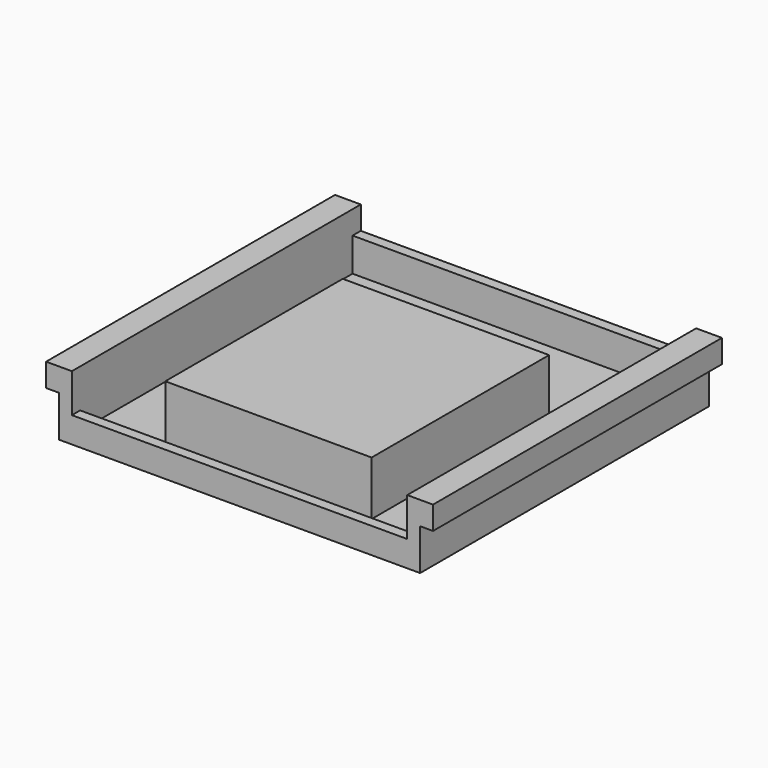
from build123d import *

# Parameters (mm, degrees)
BOX046_W          = 13
BOX046_H          = 0.4
BOX046_DEPTH      = 0.7
BOX045_W          = 13
BOX045_H          = 0.4
BOX045_DEPTH      = 1.3
BOX044_W          = 1
BOX044_H          = 14
BOX044_DEPTH      = 0.9
BOX043_W          = 1
BOX043_H          = 14
BOX043_DEPTH      = 0.9
BOX042_W          = 0.5
BOX042_H          = 14
BOX042_DEPTH      = 1.3
BOX041_W          = 0.5
BOX041_H          = 14
BOX041_DEPTH      = 1.3
BOX040_W          = 14
BOX040_H          = 14
BOX040_DEPTH      = 0.3
CYLINDER011_R     = 0.6
CYLINDER011_DEPTH = 0.6
CYLINDER012_R     = 0.6
CYLINDER012_DEPTH = 0.6
BOX055_W          = 8
BOX055_H          = 8.6
BOX055_DEPTH      = 2.1
BOX047_W          = 5
BOX047_H          = 4
BOX047_DEPTH      = 0.7


with BuildPart() as obj1:
    # Box046 → Box046 (new body)
    with BuildSketch(Plane(origin=(-6.5, -7, 0.3), x_dir=(1, 0, 0), z_dir=(0, 0, 1))):
        with Locations((6.5, 0.2)):
            Rectangle(BOX046_W, BOX046_H)
    extrude(amount=BOX046_DEPTH)


with BuildPart() as obj2:
    # Box045 → Box045 (new body)
    with BuildSketch(Plane(origin=(-6.5, 6.6, 0.3), x_dir=(1, 0, 0), z_dir=(0, 0, 1))):
        with Locations((6.5, 0.2)):
            Rectangle(BOX045_W, BOX045_H)
    extrude(amount=BOX045_DEPTH)


with BuildPart() as obj3:
    # Box044 → Box044 (new body)
    with BuildSketch(Plane(origin=(6.5, -7, 1.6), x_dir=(1, 0, 0), z_dir=(0, 0, 1))):
        with Locations((0.5, 7)):
            Rectangle(BOX044_W, BOX044_H)
    extrude(amount=BOX044_DEPTH)


with BuildPart() as obj4:
    # Box043 → Box043 (new body)
    with BuildSketch(Plane(origin=(-7.5, -7, 1.6), x_dir=(1, 0, 0), z_dir=(0, 0, 1))):
        with Locations((0.5, 7)):
            Rectangle(BOX043_W, BOX043_H)
    extrude(amount=BOX043_DEPTH)


with BuildPart() as obj5:
    # Box042 → Box042 (new body)
    with BuildSketch(Plane(origin=(6.5, -7, 0.3), x_dir=(1, 0, 0), z_dir=(0, 0, 1))):
        with Locations((0.25, 7)):
            Rectangle(BOX042_W, BOX042_H)
    extrude(amount=BOX042_DEPTH)


with BuildPart() as obj6:
    # Box041 → Box041 (new body)
    with BuildSketch(Plane(origin=(-7, -7, 0.3), x_dir=(1, 0, 0), z_dir=(0, 0, 1))):
        with Locations((0.25, 7)):
            Rectangle(BOX041_W, BOX041_H)
    extrude(amount=BOX041_DEPTH)


with BuildPart() as obj7:
    # Box040 → Box040 (new body)
    with BuildSketch(Plane(origin=(-7, -7, 0), x_dir=(1, 0, 0), z_dir=(0, 0, 1))):
        with Locations((7, 7)):
            Rectangle(BOX040_W, BOX040_H)
    extrude(amount=BOX040_DEPTH)


with BuildPart() as obj8:
    # Cylinder011 → Cylinder011 (new body)
    with BuildSketch(Plane(origin=(-5.5, -5.5, -0.6), x_dir=(1, 0, 0), z_dir=(0, 0, 1))):
        Circle(CYLINDER011_R)
    extrude(amount=CYLINDER011_DEPTH)


with BuildPart() as obj9:
    # Cylinder012 → Cylinder012 (new body)
    with BuildSketch(Plane(origin=(5.5, 5.5, -0.6), x_dir=(1, 0, 0), z_dir=(0, 0, 1))):
        Circle(CYLINDER012_R)
    extrude(amount=CYLINDER012_DEPTH)


with BuildPart() as obj10:
    # Box055 → Box055 (new body)
    with BuildSketch(Plane(origin=(-4, -5.6, 0.3), x_dir=(1, 0, 0), z_dir=(0, 0, 1))):
        with Locations((4, 4.3)):
            Rectangle(BOX055_W, BOX055_H)
    extrude(amount=BOX055_DEPTH)


with BuildPart() as obj11:
    # Box047 → Box047 (new body)
    with BuildSketch(Plane(origin=(-2.5, -1, -0.7), x_dir=(1, 0, 0), z_dir=(0, 0, 1))):
        with Locations((2.5, 2)):
            Rectangle(BOX047_W, BOX047_H)
    extrude(amount=BOX047_DEPTH)

    # Fusion011: union obj1, obj2, obj3, obj4, obj5, obj6, obj7, obj8, obj9, obj10
    add(obj1.part)
    add(obj2.part)
    add(obj3.part)
    add(obj4.part)
    add(obj5.part)
    add(obj6.part)
    add(obj7.part)
    add(obj8.part)
    add(obj9.part)
    add(obj10.part)


solid = obj11.part
